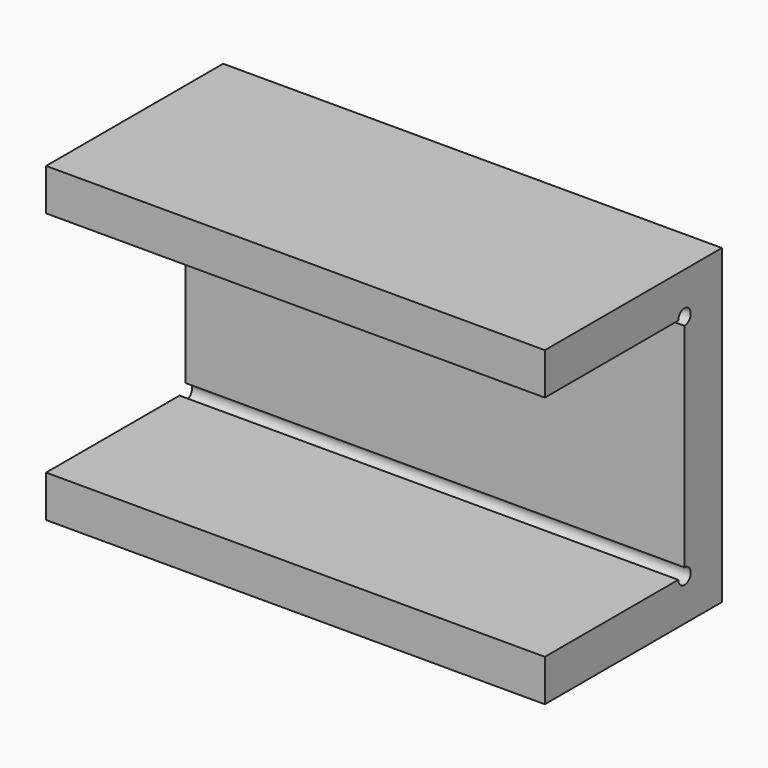
from build123d import *

# Parameters (mm, degrees)
F0_W     = 50.8
F0_H     = 4.2545
F0_H_2   = 23.241
F1_DEPTH = 4.7625
F2_DEPTH = 17.78
F4_DEPTH = 50.801


with BuildPart() as f1:
    # F0 (on Front) → F1 (new body)
    with BuildSketch(Plane.XZ):
        with Locations((0, 13.74775)):
            Rectangle(F0_W, F0_H)
        Rectangle(F0_W, F0_H_2)
        with Locations((0, -13.74775)):
            Rectangle(F0_W, F0_H)
    extrude(amount=-F1_DEPTH)

    # F0 (on Front) → F2 (join)
    with BuildSketch(Plane.XZ):
        with Locations((0, 13.74775)):
            Rectangle(F0_W, F0_H)
        with Locations((0, -13.74775)):
            Rectangle(F0_W, F0_H)
    extrude(amount=F2_DEPTH)

    # F3 (on face) → F4 (cut, through all)
    with BuildSketch(Plane(origin=(-25.4, 0, 0), x_dir=(0, -1, 0), z_dir=(-1, 0, 0))):
        with BuildLine():
            Line((0, 11.6205), (0.79375, 11.6205))
            ThreePointArc((0.79375, 11.6205), (-0.5612660076, 12.1817660076), (0, 10.82675))
            Line((0, 10.82675), (0, 11.6205))
        make_face()
        with BuildLine():
            Line((0, -11.6205), (0, -10.82675))
            ThreePointArc((0, -10.82675), (-0.5612660076, -12.1817660076), (0.79375, -11.6205))
            Line((0.79375, -11.6205), (0, -11.6205))
        make_face()
    extrude(amount=-F4_DEPTH, mode=Mode.SUBTRACT)


solid = f1.part
